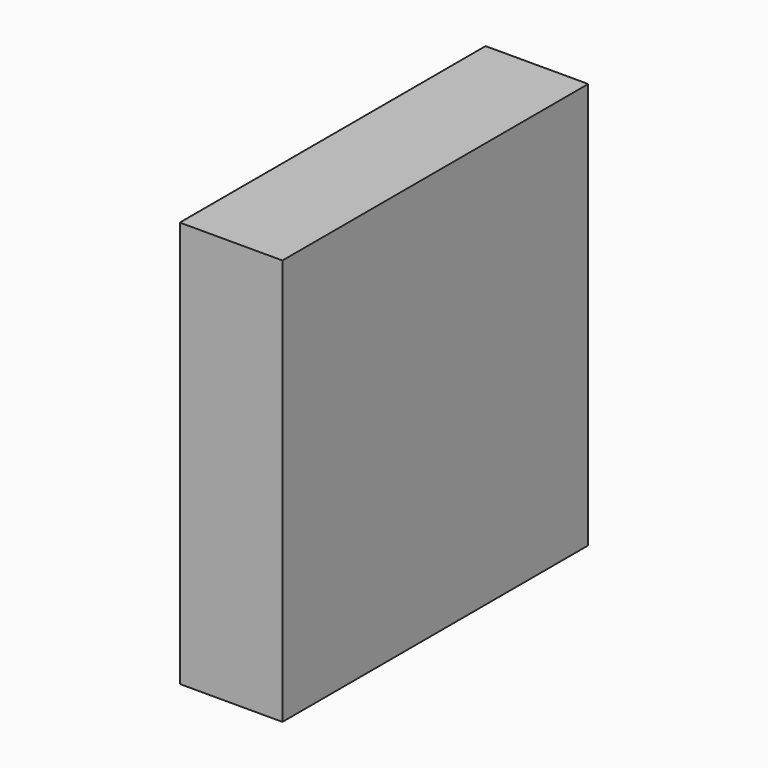
from build123d import *

# Parameters (mm, degrees)
BOX_W     = 47
BOX_H     = 175
BOX_DEPTH = 186


with BuildPart() as part:
    # Box → Box (new body)
    with BuildSketch(Plane.XY):
        with Locations((23.5, 87.5)):
            Rectangle(BOX_W, BOX_H)
    extrude(amount=BOX_DEPTH)


solid = part.part
